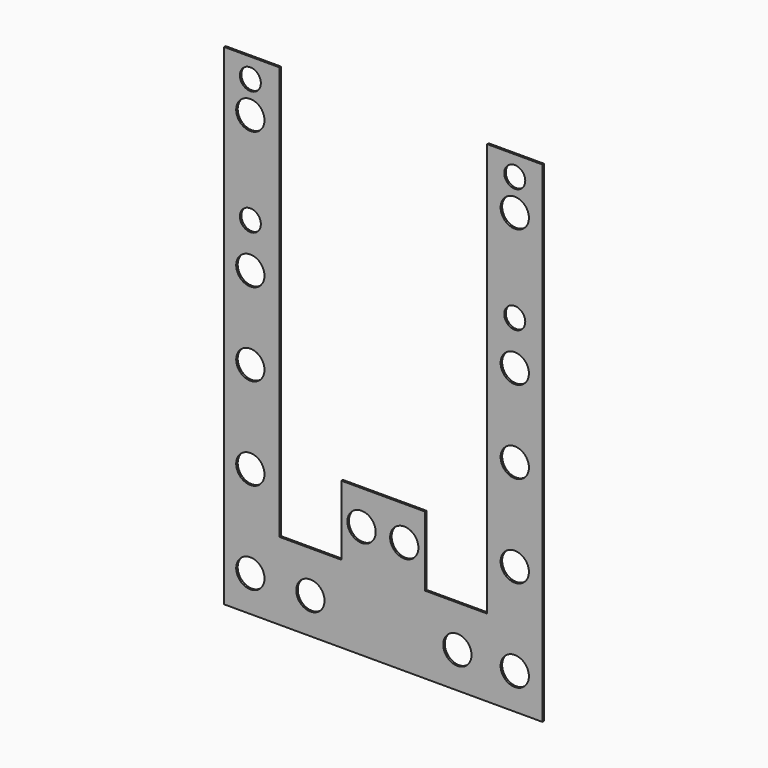
from build123d import *

# Parameters (mm, degrees)
F0_R     = 3.2512
F0_R_2   = 2.413
F1_DEPTH = 0.4318


with BuildPart() as f1:
    # F0 (on Front) → F1 (new body)
    with BuildSketch(Plane.XZ):
        Polygon((-23.3536, 56.482241), (-36.0536, 56.482241), (-36.0536, -56.293759), (37.0984, -56.293759), (37.0984, 56.482241), (24.3984, 56.482241), (24.3984, -38.513759), (10.1744, -38.513759), (10.1744, -22.511759), (-9.1296, -22.511759), (-9.1296, -38.513759), (-23.3536, -38.513759), align=None)
        with Locations((-30.022221, -48.062544)):
            Circle(F0_R, mode=Mode.SUBTRACT)
        with Locations((-16.222711, -48.062544)):
            Circle(F0_R, mode=Mode.SUBTRACT)
        with Locations((-4.467035, -30.334959)):
            Circle(F0_R, mode=Mode.SUBTRACT)
        with Locations((-30.022221, -26.952723)):
            Circle(F0_R, mode=Mode.SUBTRACT)
        with Locations((-30.022221, -5.842898)):
            Circle(F0_R, mode=Mode.SUBTRACT)
        with Locations((17.563765, -48.062544)):
            Circle(F0_R, mode=Mode.SUBTRACT)
        with Locations((5.348405, -30.334959)):
            Circle(F0_R, mode=Mode.SUBTRACT)
        with Locations((30.7484, -48.062544)):
            Circle(F0_R, mode=Mode.SUBTRACT)
        with Locations((30.7484, -26.952723)):
            Circle(F0_R, mode=Mode.SUBTRACT)
        with Locations((30.7484, -5.842898)):
            Circle(F0_R, mode=Mode.SUBTRACT)
        with Locations((-30.022221, 13.207102)):
            Circle(F0_R, mode=Mode.SUBTRACT)
        with Locations((-30.022221, 23.386041)):
            Circle(F0_R_2, mode=Mode.SUBTRACT)
        with Locations((-30.022221, 44.671241)):
            Circle(F0_R, mode=Mode.SUBTRACT)
        with Locations((-30.022221, 51.910241)):
            Circle(F0_R_2, mode=Mode.SUBTRACT)
        with Locations((30.7484, 13.207102)):
            Circle(F0_R, mode=Mode.SUBTRACT)
        with Locations((30.7484, 23.386041)):
            Circle(F0_R_2, mode=Mode.SUBTRACT)
        with Locations((30.7484, 44.671241)):
            Circle(F0_R, mode=Mode.SUBTRACT)
        with Locations((30.7484, 51.910241)):
            Circle(F0_R_2, mode=Mode.SUBTRACT)
    extrude(amount=F1_DEPTH)


solid = f1.part
